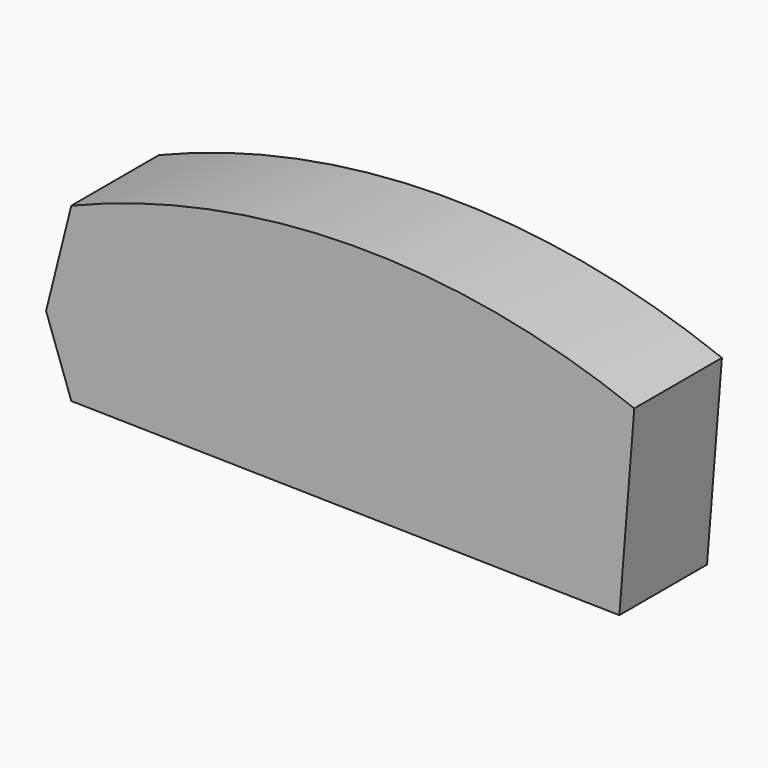
from build123d import *

# Parameters (mm, degrees)
F1_DEPTH = 12.7


with BuildPart() as f1:
    # F0 (on Front) → F1 (new body, symmetric)
    with BuildSketch(Plane.XZ):
        with BuildLine():
            Line((62.532738, 13.622965), (65.988317, 56.95064))
            ThreePointArc((65.988317, 56.95064), (0.628719, 68.972569), (-64.526342, 55.887386))
            Line((-64.526342, 55.887386), (-70.37425, 32.495756))
            Line((-70.37425, 32.495756), (-64.526342, 16.015291))
            Line((-64.526342, 16.015291), (62.532738, 13.622965))
        make_face()
    extrude(amount=F1_DEPTH, both=True)


solid = f1.part
